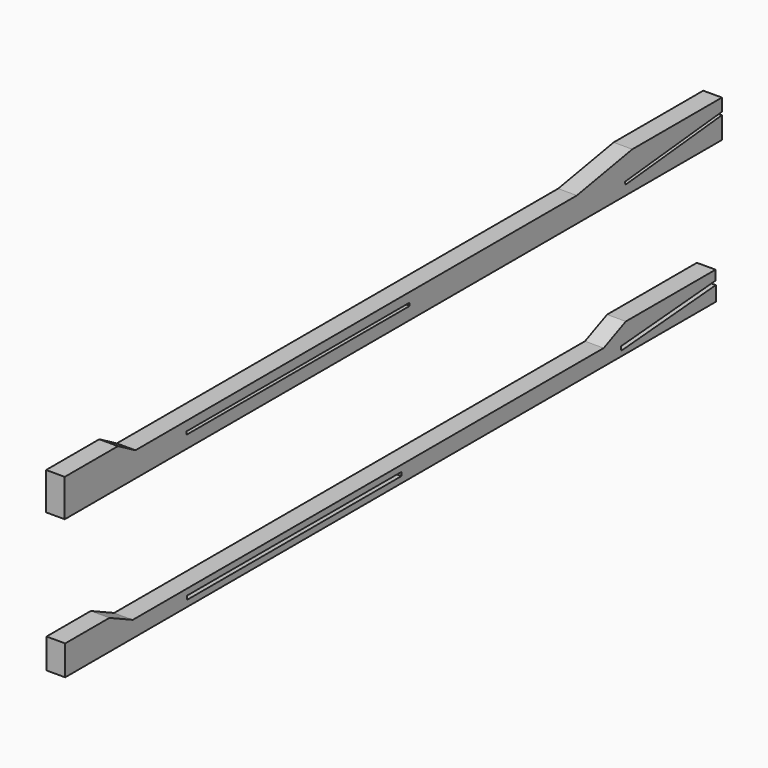
from build123d import *

# Parameters (mm, degrees)
F0_W     = 91.10317
F0_H     = 1.27
F1_DEPTH = 6.35
F2_W     = 94.975805
F2_H     = 1.016
F3_DEPTH = 6.35


with BuildPart() as f1:
    # F0 (on Right) → F1 (new body)
    with BuildSketch(Plane.YZ):
        Polygon((-76.639362, -49.945842), (-76.639362, -60.105842), (200.131938, -60.105842), (199.992719, -55.10415), (159.797776, -58.421506), (159.68287, -57.02924), (199.953792, -53.705613), (199.86257, -50.428275), (161.7053, -50.428275), (152.304232, -54.575801), (-47.883172, -54.575801), (-57.837237, -49.945842), align=None)
        with Locations((20.756191, -57.331184)):
            Rectangle(F0_W, F0_H, mode=Mode.SUBTRACT)
    extrude(amount=F1_DEPTH)


with BuildPart() as f3:
    # F2 (on Right) → F3 (new body)
    with BuildSketch(Plane.YZ):
        Polygon((-54.192867, 0), (-76.823503, 0), (-76.823503, -12.7), (202.576497, -12.7), (202.576497, -5.271316), (161.525004, -9.447455), (161.422178, -8.436672), (202.576497, -4.250072), (202.576497, 0), (164.476497, 0), (140.898839, -4.252571), (-46.779383, -4.252571), align=None)
        with Locations((22.327092, -7.928672)):
            Rectangle(F2_W, F2_H, mode=Mode.SUBTRACT)
    extrude(amount=F3_DEPTH)


solid = Compound([f1.part, f3.part])
